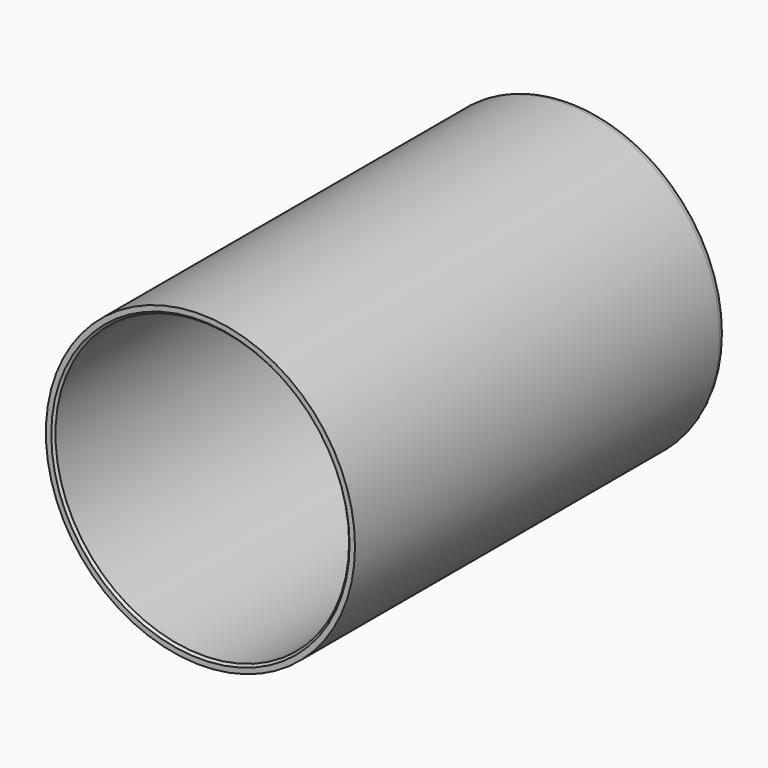
from build123d import *

# Parameters (mm, degrees)
F0_R          = 50.8
F1_DEPTH      = 152.4
F2_T          = -2.54
F3_R          = 16.25
F4_DEPTH      = 25.4
F4_DEPTH_BACK = 25.4
F5_SIZE       = 0.762
F6_R          = 2.54


with BuildPart() as f1:
    # F0 (on Front) → F1 (new body)
    with BuildSketch(Plane.XZ):
        Circle(F0_R)
    extrude(amount=F1_DEPTH)

    # F2
    f2_openings = [f1.faces().sort_by_distance(p)[0] for p in [
        (0, -152.4, 0),
    ]]
    offset(amount=F2_T, openings=f2_openings)

    # F3 (on face) → F4 (cut, two sides)
    with BuildSketch(Plane.XZ.offset(2.54)) as f4_sk:
        Circle(F3_R)
    extrude(amount=-F4_DEPTH, mode=Mode.SUBTRACT)
    extrude(f4_sk.sketch, amount=F4_DEPTH_BACK, mode=Mode.SUBTRACT)

    # F5
    f5_edges = [f1.edges().sort_by_distance(p)[0] for p in [
        (-48.26, -152.4, 0),
    ]]
    chamfer(f5_edges, length=F5_SIZE)

    # F6
    f6_edges = [f1.edges().sort_by_distance(p)[0] for p in [
        (-50.8, 0, 0),
    ]]
    fillet(f6_edges, radius=F6_R)


solid = f1.part
